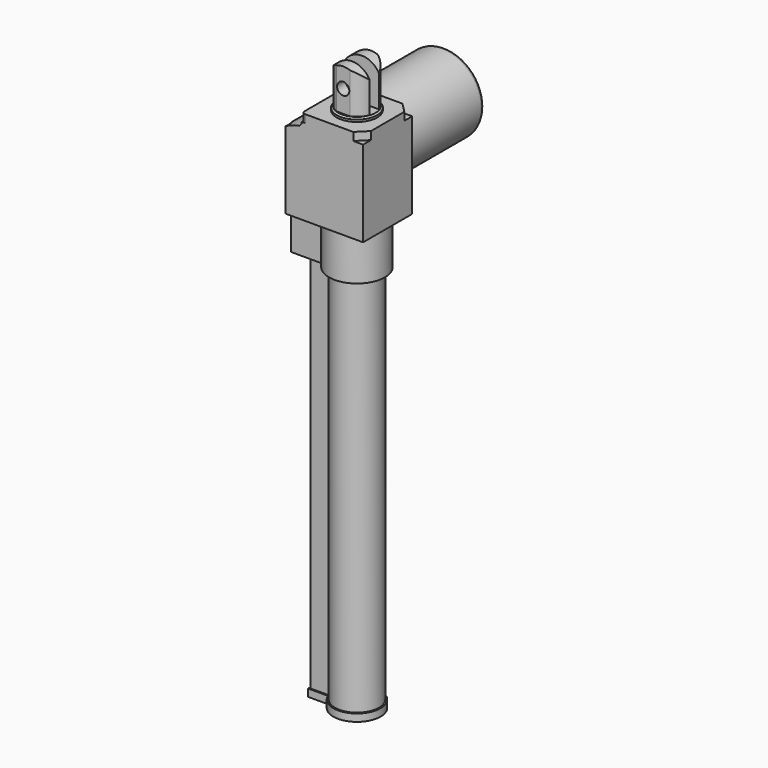
from build123d import *

# Parameters (mm, degrees)
PAD_DEPTH       = 6.5
SKETCH001_R     = 16.5
PAD001_DEPTH    = 3
PAD002_DEPTH    = 34
SKETCH003_R     = 5
POCKET_DEPTH    = 30
CHAMFER_SIZE    = 1.25
SKETCH004_W     = 71
SKETCH004_H     = 50
PAD003_DEPTH    = 70
SKETCH005_R     = 32
PAD004_DEPTH    = 142
PAD005_DEPTH    = 36
PAD006_DEPTH    = 310
PAD007_DEPTH    = 6
POCKET001_DEPTH = 142.001
POCKET002_DEPTH = 422.001
SKETCH011_R     = 12
POCKET003_DEPTH = 300
SKETCH012_R     = 12
PAD008_DEPTH    = 7
CHAMFER001_SIZE = 6
FILLET_R        = 3


with BuildPart() as part:
    # Sketch → Pad (new body)
    with BuildSketch(Plane.XY):
        with BuildLine():
            Line((-22, 25), (17, 25))
            Line((17, 25), (25, 17))
            Line((25, 17), (25, -17))
            Line((17, -25), (25, -17))
            Line((17, -25), (-22, -25))
            ThreePointArc((-25, -22), (-24.12132, -24.12132), (-22, -25))
            Line((-25, -22), (-25, 22))
            ThreePointArc((-22, 25), (-24.12132, 24.12132), (-25, 22))
        make_face()
    extrude(amount=PAD_DEPTH)

    # Sketch001 (on Face10 of Pad) → Pad001 (join)
    with BuildSketch(Plane.XY.offset(6.5)):
        Circle(SKETCH001_R)
    extrude(amount=PAD001_DEPTH)

    # Sketch002 (on Face12 of Pad001) → Pad002 (join)
    with BuildSketch(Plane.XY.offset(9.5)):
        with BuildLine():
            ThreePointArc((-5.385165, 14), (-10.750761, 10.460456), (-14.142136, 5))
            Line((-14.142136, 5), (14.142136, 5))
            ThreePointArc((14.142136, 5), (10.750761, 10.460456), (5.385165, 14))
            Line((-5.385165, 14), (5.385165, 14))
        make_face()
        with BuildLine():
            Line((-14.142136, -5), (14.142136, -5))
            ThreePointArc((5.385165, -14), (10.750761, -10.460456), (14.142136, -5))
            Line((-5.385165, -14), (5.385165, -14))
            ThreePointArc((-14.142136, -5), (-10.750761, -10.460456), (-5.385165, -14))
        make_face()
    extrude(amount=PAD002_DEPTH)

    # Sketch003 (on Face14 of Pad002) → Pocket (cut)
    with BuildSketch(Plane.XZ.offset(14)):
        with Locations((0, 27.5)):
            Circle(SKETCH003_R)
        with BuildLine():
            ThreePointArc((14.387495, 34.5), (0, 43.5), (-14.387495, 34.5))
            Line((-14.387495, 34.5), (-14.387495, 44.5))
            Line((14.387495, 44.5), (-14.387495, 44.5))
            Line((14.387495, 34.5), (14.387495, 44.5))
        make_face()
    extrude(amount=-POCKET_DEPTH, mode=Mode.SUBTRACT)

    # Chamfer
    chamfer_edges = [part.edges().sort_by_distance(p)[0] for p in [
        (-16.5, 0, 9.5),
    ]]
    chamfer(chamfer_edges, length=CHAMFER_SIZE)

    # Sketch004 (on Face21 of Chamfer) → Pad003 (join)
    with BuildSketch(Plane(origin=(0, 0, 0), x_dir=(1, 0, 0), z_dir=(0, 0, -1))):
        with Locations((-10.5, 0)):
            Rectangle(SKETCH004_W, SKETCH004_H)
    extrude(amount=PAD003_DEPTH)

    # Sketch005 (on Face1 of Pad003) → Pad004 (join)
    with BuildSketch(Plane.XZ.offset(25)):
        with Locations((-22, -35)):
            Circle(SKETCH005_R)
    extrude(amount=-PAD004_DEPTH)

    # Sketch006 (on Face6 of Pad004) → Pad005 (join)
    with BuildSketch(Plane(origin=(0, 0, -70), x_dir=(1, 0, 0), z_dir=(0, 0, -1))):
        with BuildLine():
            ThreePointArc((-20.434346, -10), (22.75, 0), (-20.434346, 10))
            Line((-45.75, 10), (-20.434346, 10))
            Line((-45.75, -10), (-45.75, 10))
            Line((-20.434346, -10), (-45.75, -10))
        make_face()
    extrude(amount=PAD005_DEPTH)

    # Sketch007 (on Face27 of Pad005) → Pad006 (join)
    with BuildSketch(Plane(origin=(0, 0, -106), x_dir=(1, 0, 0), z_dir=(0, 0, -1))):
        with BuildLine():
            ThreePointArc((-16.78541, -6.5), (18, 0), (-16.78541, 6.5))
            Line((-32.5, 6.5), (-16.78541, 6.5))
            Line((-32.5, -6.5), (-32.5, 6.5))
            Line((-16.78541, -6.5), (-32.5, -6.5))
        make_face()
    extrude(amount=PAD006_DEPTH)

    # Sketch008 (on Face35 of Pad006) → Pad007 (join)
    with BuildSketch(Plane(origin=(0, 0, -416), x_dir=(1, 0, 0), z_dir=(0, 0, -1))):
        with BuildLine():
            ThreePointArc((-17.728861, -7.5), (19.25, 0), (-17.728861, 7.5))
            Line((-33.75, 7.5), (-17.728861, 7.5))
            Line((-33.75, -7.5), (-33.75, 7.5))
            Line((-17.728861, -7.5), (-33.75, -7.5))
        make_face()
    extrude(amount=PAD007_DEPTH)

    # Sketch009 (on Face1 of Pad003) → Pocket001 (cut, through all)
    with BuildSketch(Plane.XZ.offset(25)):
        with BuildLine():
            ThreePointArc((-27, -3.393039), (-46.33105, -14.21539), (-54, -35))
            Line((-54, -35), (-54, 0))
            Line((-25, 0), (-54, 0))
            Line((-25, -1.393039), (-25, 0))
            Line((-27, -3.393039), (-25, -1.393039))
        make_face()
    extrude(amount=-POCKET001_DEPTH, mode=Mode.SUBTRACT)

    # Sketch010 (on Face4 of Pad003) → Pocket002 (cut, through all)
    with BuildSketch(Plane.XY):
        Polygon((-38, -25), (-38, -18.5), (-46, -9.5), (-46, 11.5), (-55, 20.5), (-55, -25), align=None)
    extrude(amount=-POCKET002_DEPTH, mode=Mode.SUBTRACT)

    # Sketch011 (on Face5 of Pad007) → Pocket003 (cut)
    with BuildSketch(Plane(origin=(0, 0, -422), x_dir=(1, 0, 0), z_dir=(0, 0, -1))):
        Circle(SKETCH011_R)
    extrude(amount=-POCKET003_DEPTH, mode=Mode.SUBTRACT)

    # Sketch012 (on Face23 of Pad004) → Pad008 (join)
    with BuildSketch(Plane(origin=(0, 117, 0), x_dir=(-1, 0, 0), z_dir=(0, 1, 0))):
        with Locations((22, -35)):
            Circle(SKETCH012_R)
    extrude(amount=PAD008_DEPTH)

    # Chamfer001
    chamfer001_edges = [part.edges().sort_by_distance(p)[0] for p in [
        (-10, 124, -35),
    ]]
    chamfer(chamfer001_edges, length=CHAMFER001_SIZE)

    # Fillet
    fillet_edges = [part.edges().sort_by_distance(p)[0] for p in [
        (-46.33105, 117, -14.21539),
        (-1.21539, 117, -10.66895),
        (-22, 117, -67),
    ]]
    fillet(fillet_edges, radius=FILLET_R)


solid = part.part
